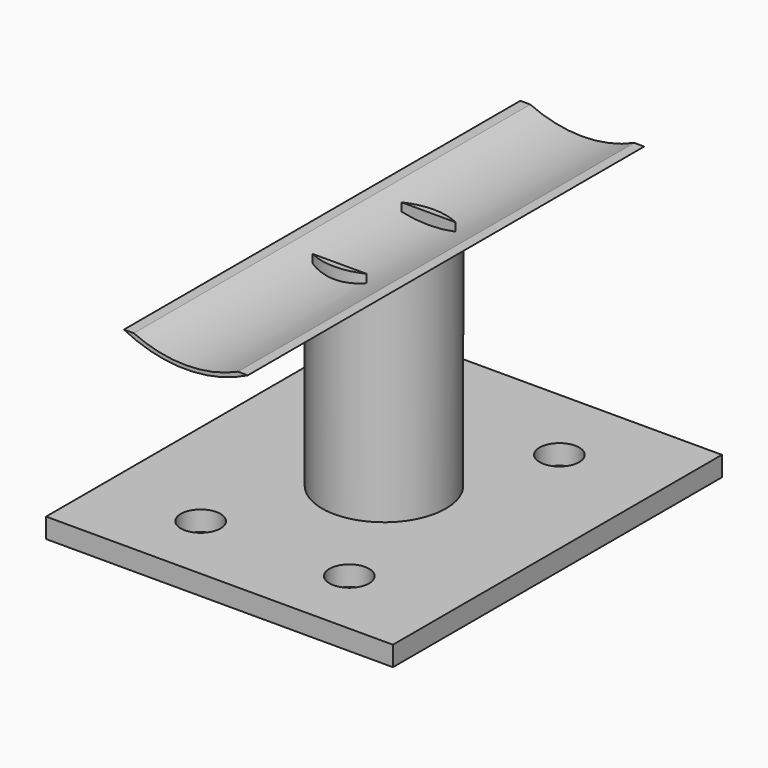
from build123d import *

# Parameters (mm, degrees)
F0_W     = 70
F0_H     = 83
F1_DEPTH = 4
F2_R     = 12.5
F2_R_2   = 11
F3_DEPTH = 44
F5_DEPTH = 11.25
F6_R     = 4
F7_DEPTH = 25


with BuildPart() as f1:
    # F0 (on Top) → F1 (new body)
    with BuildSketch(Plane.XY):
        Rectangle(F0_W, F0_H)
    extrude(amount=-F1_DEPTH)

    # F2 (on face) → F3 (join)
    with BuildSketch(Plane.XY):
        Circle(F2_R)
        Circle(F2_R_2, mode=Mode.SUBTRACT)
    extrude(amount=F3_DEPTH)

    # F4 (on Front) → F5 (cut, symmetric)
    with BuildSketch(Plane.XZ):
        with BuildLine():
            Line((10.5089721754, 44), (-10.4910278246, 44))
            ThreePointArc((-10.4910278246, 44), (0.0089721754, 41.7379000772), (10.5089721754, 44))
        make_face()
        with BuildLine():
            Line((-10.4910278246, 44), (-12.4910278246, 44))
            ThreePointArc((-12.4910278246, 44), (0.0089721754, 40.9948974278), (12.5089721754, 44))
            Line((12.5089721754, 44), (10.5089721754, 44))
            ThreePointArc((10.5089721754, 44), (0.0089721754, 41.7379000772), (-10.4910278246, 44))
        make_face()
    extrude(amount=F5_DEPTH, both=True, mode=Mode.SUBTRACT)

    # F6 (on face) → F7 (cut)
    with BuildSketch(Plane(origin=(0, 0, -4), x_dir=(1, 0, 0), z_dir=(0, 0, -1))):
        with Locations((-15, 27.5)):
            Circle(F6_R)
        with Locations((15, 27.5)):
            Circle(F6_R)
        with Locations((15, -25.5)):
            Circle(F6_R)
        with Locations((-15, -25.5)):
            Circle(F6_R)
    extrude(amount=-F7_DEPTH, mode=Mode.SUBTRACT)

    # F9: sweep along a path in F8
    with BuildLine(Plane.YZ) as f9_path:
        Line((50, 37), (-50, 37))
    # F4 (on Front) → F9 (sweep)
    with BuildSketch(Plane.XZ):
        with BuildLine():
            Line((-10.4910278246, 44), (-12.4910278246, 44))
            ThreePointArc((-12.4910278246, 44), (0.0089721754, 40.9948974278), (12.5089721754, 44))
            Line((12.5089721754, 44), (10.5089721754, 44))
            ThreePointArc((10.5089721754, 44), (0.0089721754, 41.7379000772), (-10.4910278246, 44))
        make_face()
    sweep(path=f9_path.line)


solid = f1.part
